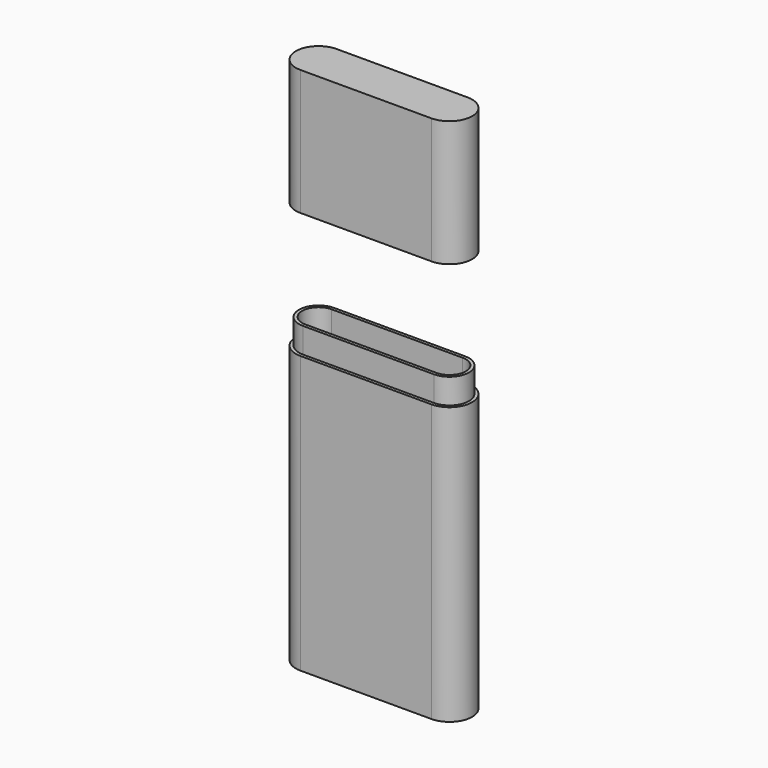
from build123d import *

# Parameters (mm, degrees)
F2_DEPTH  = 76.2
F3_T      = -1.5875
F5_DEPTH  = 6.35
F8_DEPTH  = 31.75
F9_T      = -1.5875
F11_DEPTH = 7.62


with BuildPart() as f2:
    # F0 (on Top) → F2 (new body)
    with BuildSketch(Plane.XY):
        with BuildLine():
            Line((16.51, 5.715), (-16.51, 5.715))
            ThreePointArc((-16.51, 5.715), (-22.225, 0), (-16.51, -5.715))
            Line((-16.51, -5.715), (16.51, -5.715))
            ThreePointArc((16.51, -5.715), (22.225, 0), (16.51, 5.715))
        make_face()
    extrude(amount=F2_DEPTH)

    # F3
    f3_openings = [f2.faces().sort_by_distance(p)[0] for p in [
        (0, 0, 76.2),
    ]]
    offset(amount=F3_T, openings=f3_openings)

    # F4 (on face) → F5 (cut)
    with BuildSketch(Plane.XY.offset(76.2)):
        with BuildLine():
            Line((16.51, 5.715), (-16.51, 5.715))
            ThreePointArc((-16.51, 5.715), (-22.225, 0), (-16.51, -5.715))
            Line((-16.51, -5.715), (16.51, -5.715))
            ThreePointArc((16.51, -5.715), (22.225, 0), (16.51, 5.715))
        make_face()
        with BuildLine():
            ThreePointArc((-16.51, -4.92125), (-21.43125, 0), (-16.51, 4.92125))
            Line((-16.51, 4.92125), (16.51, 4.92125))
            ThreePointArc((16.51, 4.92125), (21.43125, 0), (16.51, -4.92125))
            Line((16.51, -4.92125), (-16.51, -4.92125))
        make_face(mode=Mode.SUBTRACT)
    extrude(amount=-F5_DEPTH, mode=Mode.SUBTRACT)


with BuildPart() as f8:
    # F7 (on offset) → F8 (new body)
    with BuildSketch(Plane.XY.offset(101.6)):
        with BuildLine():
            Line((16.51, 5.715), (-16.51, 5.715))
            ThreePointArc((-16.51, 5.715), (-22.225, 0), (-16.51, -5.715))
            Line((-16.51, -5.715), (16.51, -5.715))
            ThreePointArc((16.51, -5.715), (22.225, 0), (16.51, 5.715))
        make_face()
    extrude(amount=F8_DEPTH)

    # F9
    f9_openings = [f8.faces().sort_by_distance(p)[0] for p in [
        (0, 0, 101.6),
    ]]
    offset(amount=F9_T, openings=f9_openings)

    # F10 (on face) → F11 (cut)
    with BuildSketch(Plane(origin=(0, 0, 101.6), x_dir=(1, 0, 0), z_dir=(0, 0, -1))):
        with BuildLine():
            Line((16.51, 4.92125), (-16.51, 4.92125))
            ThreePointArc((-16.51, 4.92125), (-21.43125, 0), (-16.51, -4.92125))
            Line((-16.51, -4.92125), (16.51, -4.92125))
            ThreePointArc((16.51, -4.92125), (21.43125, 0), (16.51, 4.92125))
        make_face()
    extrude(amount=-F11_DEPTH, mode=Mode.SUBTRACT)


solid = Compound([f2.part, f8.part])
